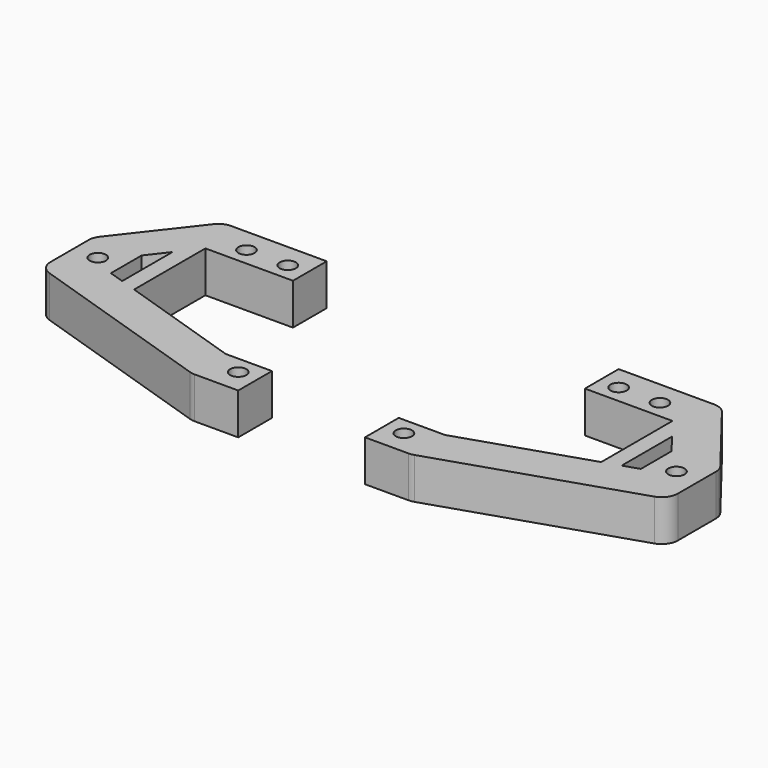
from build123d import *

# Parameters (mm, degrees)
F0_R     = 2.5
F1_DEPTH = 12.73
F2_R     = 5


with BuildPart() as f1:
    # F0 (on Top) → F1 (new body)
    with BuildSketch(Plane.XY):
        Polygon((-45.69, -17.96), (-45.69, -32.96), (-45.69, -35.904556), (-45.69, -37.904556), (17.19, -58.42), (31.46, -58.42), (31.46, -45.42), (17.19, -45.42), (-21, -32.96), (-26, -31.328683), (-30.69, -29.798507), (-30.69, -17.96), (-26, -11.929309), (-21, -5.5), (6, -5.5), (6, 5.5), (6, 7.5), (-25.890048, 7.5), (-27.445425, 5.5), align=None)
        with Locations((25.46, -50.92)):
            Circle(F0_R, mode=Mode.SUBTRACT)
        with Locations((-38.19, -25.46)):
            Circle(F0_R, mode=Mode.SUBTRACT)
        with Locations((-12.73, 0)):
            Circle(F0_R, mode=Mode.SUBTRACT)
        Circle(F0_R, mode=Mode.SUBTRACT)
        Polygon((-21, -32.96), (-21, -5.5), (-26, -11.929309), (-26, -25.46), (-26, -31.328683), align=None)
    extrude(amount=F1_DEPTH)

    # F2
    f2_edges = [f1.edges().sort_by_distance(p)[0] for p in [
        (-25.890048, 7.5, 6.365),
        (-45.69, -17.96, 6.365),
        (-45.69, -37.904556, 6.365),
        (17.19, -58.42, 6.365),
    ]]
    fillet(f2_edges, radius=F2_R)


with BuildPart() as f1_1:
    # F3: moved
    add(f1.part.moved(Location((-51, 0, 0))))


with BuildPart() as f4_1:
    # F4: instance of F1
    add(f1_1.part.mirror(Plane.YZ))


solid = Compound([f1_1.part, f4_1.part])
